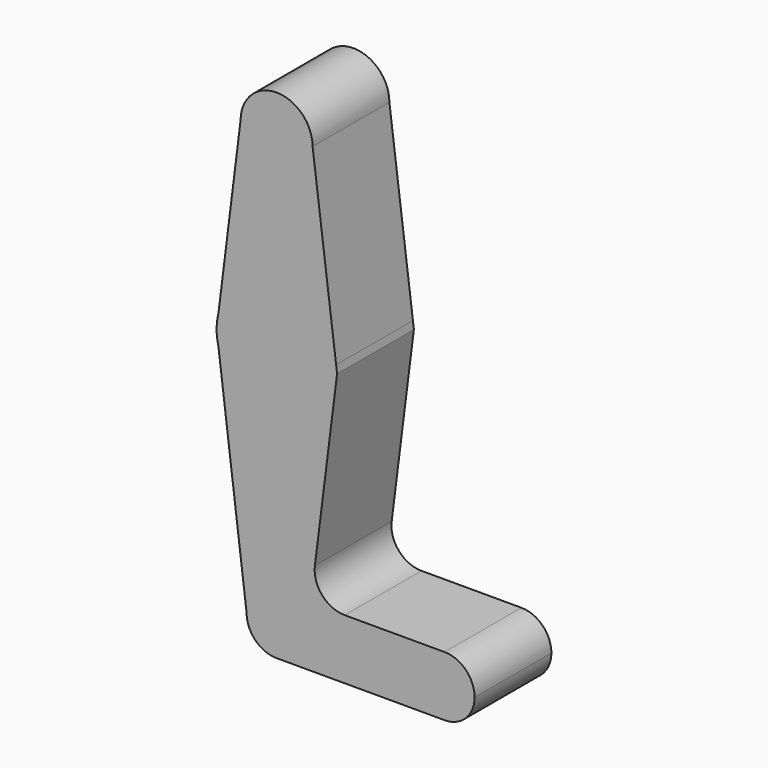
from build123d import *

# Parameters (mm, degrees)
F0_R     = 3.175
F1_DEPTH = 25.4


with BuildPart() as f1:
    # F0 (on Front) → F1 (new body)
    with BuildSketch(Plane.XZ):
        with BuildLine():
            ThreePointArc((44.45, -7.9375), (36.5125, 0), (44.45, 7.9375))
            Line((44.45, 7.9375), (18.015812116, 7.9375))
            ThreePointArc((18.015812116, 7.9375), (12.0530385091, 10.6292771421), (10.1280143169, 16.8818458246))
            Line((10.1280143169, 16.8818458246), (16.0035761028, 63.5))
            Line((16.0035761028, 63.5), (15.7474569502, 65.5082889734))
            ThreePointArc((15.7474569502, 65.5082889734), (15.843082151, 64.50616746), (15.875, 63.5))
            ThreePointArc((15.875, 63.5), (1.9690514116, 47.7475887072), (-15.3865384615, 59.5923076923))
            Line((-15.3865384615, 59.5923076923), (-7.9375, 0))
            ThreePointArc((-7.9375, 0), (0, 7.9375), (7.9375, 0))
            ThreePointArc((7.9375, 0), (5.6126600757, -5.6126600757), (0, -7.9375))
            Line((0, -7.9375), (44.45, -7.9375))
        make_face()
        with BuildLine():
            Line((-15.875, 63.5), (-15.3865384615, 59.5923076923))
            ThreePointArc((-15.3865384615, 59.5923076923), (1.9690514116, 47.7475887072), (15.875, 63.5))
            ThreePointArc((15.875, 63.5), (15.843082151, 64.50616746), (15.7474569502, 65.5082889734))
            ThreePointArc((15.7474569502, 65.5082889734), (0.9666947789, 79.3455396312), (-15.3865384615, 67.4076923077))
            Line((-15.3865384615, 67.4076923077), (-15.875, 63.5))
        make_face()
        with Locations((0, 63.5)):
            Circle(F0_R, mode=Mode.SUBTRACT)
        with BuildLine():
            ThreePointArc((-15.3865384615, 67.4076923077), (0.9666947789, 79.3455396312), (15.7474569502, 65.5082889734))
            Line((15.7474569502, 65.5082889734), (9.525, 114.3))
            ThreePointArc((9.525, 114.3), (0, 104.775), (-9.525, 114.3))
            Line((-9.525, 114.3), (-15.3865384615, 67.4076923077))
        make_face()
        with BuildLine():
            ThreePointArc((-9.525, 114.3), (0, 104.775), (9.525, 114.3))
            ThreePointArc((9.525, 114.3), (0, 123.825), (-9.525, 114.3))
        make_face()
        with Locations((0, 114.3)):
            Circle(F0_R, mode=Mode.SUBTRACT)
        with BuildLine():
            ThreePointArc((44.45, -7.9375), (50.0626600757, -5.6126600757), (52.3875, 0))
            ThreePointArc((52.3875, 0), (50.0626600757, 5.6126600757), (44.45, 7.9375))
            ThreePointArc((44.45, 7.9375), (36.5125, 0), (44.45, -7.9375))
        make_face()
        with Locations((44.45, 0)):
            Circle(F0_R, mode=Mode.SUBTRACT)
        with BuildLine():
            ThreePointArc((-7.9375, 0), (-5.6126600757, -5.6126600757), (0, -7.9375))
            ThreePointArc((0, -7.9375), (5.6126600757, -5.6126600757), (7.9375, 0))
            ThreePointArc((7.9375, 0), (0, 7.9375), (-7.9375, 0))
        make_face()
        Circle(F0_R, mode=Mode.SUBTRACT)
        with Locations((44.45, 0)):
            Circle(F0_R)
        Circle(F0_R)
        with Locations((0, 63.5)):
            Circle(F0_R)
        with Locations((0, 114.3)):
            Circle(F0_R)
        with BuildLine():
            ThreePointArc((-15.875, 63.5), (-15.7524112928, 61.5309485884), (-15.3865384615, 59.5923076923))
            Line((-15.3865384615, 59.5923076923), (-15.875, 63.5))
        make_face()
        with BuildLine():
            ThreePointArc((-15.3865384615, 67.4076923077), (-15.7524112928, 65.4690514116), (-15.875, 63.5))
            Line((-15.875, 63.5), (-15.3865384615, 67.4076923077))
        make_face()
    extrude(amount=F1_DEPTH)


solid = f1.part
